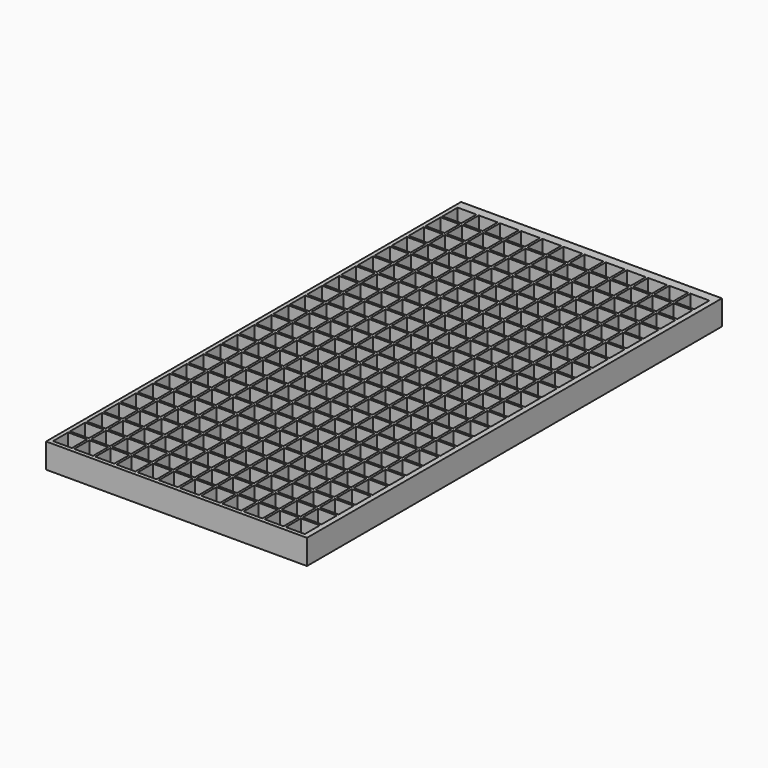
from build123d import *

# Parameters (mm, degrees)
F0_W     = 266.7
F0_H     = 530.225
F0_W_2   = 19.2532
F0_H_2   = 19.2532
F1_DEPTH = 25.4


with BuildPart() as f1:
    # F0 (on Top) → F1 (new body)
    with BuildSketch(Plane.XY):
        with Locations((133.35, 265.1125)):
            Rectangle(F0_W, F0_H)
        with Locations((13.589, 13.589)):
            Rectangle(F0_W_2, F0_H_2, mode=Mode.SUBTRACT)
        with Locations((13.589, 35.2298)):
            Rectangle(F0_W_2, F0_H_2, mode=Mode.SUBTRACT)
        with Locations((13.589, 56.8706)):
            Rectangle(F0_W_2, F0_H_2, mode=Mode.SUBTRACT)
        with Locations((35.2298, 13.589)):
            Rectangle(F0_W_2, F0_H_2, mode=Mode.SUBTRACT)
        with Locations((56.8706, 13.589)):
            Rectangle(F0_W_2, F0_H_2, mode=Mode.SUBTRACT)
        with Locations((35.2298, 35.2298)):
            Rectangle(F0_W_2, F0_H_2, mode=Mode.SUBTRACT)
        with Locations((35.2298, 56.8706)):
            Rectangle(F0_W_2, F0_H_2, mode=Mode.SUBTRACT)
        with Locations((56.8706, 35.2298)):
            Rectangle(F0_W_2, F0_H_2, mode=Mode.SUBTRACT)
        with Locations((56.8706, 56.8706)):
            Rectangle(F0_W_2, F0_H_2, mode=Mode.SUBTRACT)
        with Locations((13.589, 78.5114)):
            Rectangle(F0_W_2, F0_H_2, mode=Mode.SUBTRACT)
        with Locations((13.589, 100.1522)):
            Rectangle(F0_W_2, F0_H_2, mode=Mode.SUBTRACT)
        with Locations((13.589, 121.793)):
            Rectangle(F0_W_2, F0_H_2, mode=Mode.SUBTRACT)
        with Locations((35.2298, 78.5114)):
            Rectangle(F0_W_2, F0_H_2, mode=Mode.SUBTRACT)
        with Locations((56.8706, 78.5114)):
            Rectangle(F0_W_2, F0_H_2, mode=Mode.SUBTRACT)
        with Locations((35.2298, 100.1522)):
            Rectangle(F0_W_2, F0_H_2, mode=Mode.SUBTRACT)
        with Locations((35.2298, 121.793)):
            Rectangle(F0_W_2, F0_H_2, mode=Mode.SUBTRACT)
        with Locations((56.8706, 100.1522)):
            Rectangle(F0_W_2, F0_H_2, mode=Mode.SUBTRACT)
        with Locations((56.8706, 121.793)):
            Rectangle(F0_W_2, F0_H_2, mode=Mode.SUBTRACT)
        with Locations((78.5114, 13.589)):
            Rectangle(F0_W_2, F0_H_2, mode=Mode.SUBTRACT)
        with Locations((78.5114, 35.2298)):
            Rectangle(F0_W_2, F0_H_2, mode=Mode.SUBTRACT)
        with Locations((78.5114, 56.8706)):
            Rectangle(F0_W_2, F0_H_2, mode=Mode.SUBTRACT)
        with Locations((100.1522, 13.589)):
            Rectangle(F0_W_2, F0_H_2, mode=Mode.SUBTRACT)
        with Locations((121.793, 13.589)):
            Rectangle(F0_W_2, F0_H_2, mode=Mode.SUBTRACT)
        with Locations((100.1522, 35.2298)):
            Rectangle(F0_W_2, F0_H_2, mode=Mode.SUBTRACT)
        with Locations((100.1522, 56.8706)):
            Rectangle(F0_W_2, F0_H_2, mode=Mode.SUBTRACT)
        with Locations((121.793, 35.2298)):
            Rectangle(F0_W_2, F0_H_2, mode=Mode.SUBTRACT)
        with Locations((121.793, 56.8706)):
            Rectangle(F0_W_2, F0_H_2, mode=Mode.SUBTRACT)
        with Locations((78.5114, 78.5114)):
            Rectangle(F0_W_2, F0_H_2, mode=Mode.SUBTRACT)
        with Locations((78.5114, 100.1522)):
            Rectangle(F0_W_2, F0_H_2, mode=Mode.SUBTRACT)
        with Locations((78.5114, 121.793)):
            Rectangle(F0_W_2, F0_H_2, mode=Mode.SUBTRACT)
        with Locations((100.1522, 78.5114)):
            Rectangle(F0_W_2, F0_H_2, mode=Mode.SUBTRACT)
        with Locations((121.793, 78.5114)):
            Rectangle(F0_W_2, F0_H_2, mode=Mode.SUBTRACT)
        with Locations((100.1522, 100.1522)):
            Rectangle(F0_W_2, F0_H_2, mode=Mode.SUBTRACT)
        with Locations((100.1522, 121.793)):
            Rectangle(F0_W_2, F0_H_2, mode=Mode.SUBTRACT)
        with Locations((121.793, 100.1522)):
            Rectangle(F0_W_2, F0_H_2, mode=Mode.SUBTRACT)
        with Locations((121.793, 121.793)):
            Rectangle(F0_W_2, F0_H_2, mode=Mode.SUBTRACT)
        with Locations((13.589, 143.4338)):
            Rectangle(F0_W_2, F0_H_2, mode=Mode.SUBTRACT)
        with Locations((13.589, 165.0746)):
            Rectangle(F0_W_2, F0_H_2, mode=Mode.SUBTRACT)
        with Locations((13.589, 186.7154)):
            Rectangle(F0_W_2, F0_H_2, mode=Mode.SUBTRACT)
        with Locations((35.2298, 143.4338)):
            Rectangle(F0_W_2, F0_H_2, mode=Mode.SUBTRACT)
        with Locations((35.2298, 165.0746)):
            Rectangle(F0_W_2, F0_H_2, mode=Mode.SUBTRACT)
        with Locations((56.8706, 143.4338)):
            Rectangle(F0_W_2, F0_H_2, mode=Mode.SUBTRACT)
        with Locations((56.8706, 165.0746)):
            Rectangle(F0_W_2, F0_H_2, mode=Mode.SUBTRACT)
        with Locations((35.2298, 186.7154)):
            Rectangle(F0_W_2, F0_H_2, mode=Mode.SUBTRACT)
        with Locations((56.8706, 186.7154)):
            Rectangle(F0_W_2, F0_H_2, mode=Mode.SUBTRACT)
        with Locations((13.589, 208.3562)):
            Rectangle(F0_W_2, F0_H_2, mode=Mode.SUBTRACT)
        with Locations((13.589, 229.997)):
            Rectangle(F0_W_2, F0_H_2, mode=Mode.SUBTRACT)
        with Locations((13.589, 251.6378)):
            Rectangle(F0_W_2, F0_H_2, mode=Mode.SUBTRACT)
        with Locations((35.2298, 208.3562)):
            Rectangle(F0_W_2, F0_H_2, mode=Mode.SUBTRACT)
        with Locations((35.2298, 229.997)):
            Rectangle(F0_W_2, F0_H_2, mode=Mode.SUBTRACT)
        with Locations((56.8706, 208.3562)):
            Rectangle(F0_W_2, F0_H_2, mode=Mode.SUBTRACT)
        with Locations((56.8706, 229.997)):
            Rectangle(F0_W_2, F0_H_2, mode=Mode.SUBTRACT)
        with Locations((35.2298, 251.6378)):
            Rectangle(F0_W_2, F0_H_2, mode=Mode.SUBTRACT)
        with Locations((56.8706, 251.6378)):
            Rectangle(F0_W_2, F0_H_2, mode=Mode.SUBTRACT)
        with Locations((78.5114, 143.4338)):
            Rectangle(F0_W_2, F0_H_2, mode=Mode.SUBTRACT)
        with Locations((78.5114, 165.0746)):
            Rectangle(F0_W_2, F0_H_2, mode=Mode.SUBTRACT)
        with Locations((78.5114, 186.7154)):
            Rectangle(F0_W_2, F0_H_2, mode=Mode.SUBTRACT)
        with Locations((100.1522, 143.4338)):
            Rectangle(F0_W_2, F0_H_2, mode=Mode.SUBTRACT)
        with Locations((100.1522, 165.0746)):
            Rectangle(F0_W_2, F0_H_2, mode=Mode.SUBTRACT)
        with Locations((121.793, 143.4338)):
            Rectangle(F0_W_2, F0_H_2, mode=Mode.SUBTRACT)
        with Locations((121.793, 165.0746)):
            Rectangle(F0_W_2, F0_H_2, mode=Mode.SUBTRACT)
        with Locations((100.1522, 186.7154)):
            Rectangle(F0_W_2, F0_H_2, mode=Mode.SUBTRACT)
        with Locations((121.793, 186.7154)):
            Rectangle(F0_W_2, F0_H_2, mode=Mode.SUBTRACT)
        with Locations((78.5114, 208.3562)):
            Rectangle(F0_W_2, F0_H_2, mode=Mode.SUBTRACT)
        with Locations((78.5114, 229.997)):
            Rectangle(F0_W_2, F0_H_2, mode=Mode.SUBTRACT)
        with Locations((78.5114, 251.6378)):
            Rectangle(F0_W_2, F0_H_2, mode=Mode.SUBTRACT)
        with Locations((100.1522, 208.3562)):
            Rectangle(F0_W_2, F0_H_2, mode=Mode.SUBTRACT)
        with Locations((100.1522, 229.997)):
            Rectangle(F0_W_2, F0_H_2, mode=Mode.SUBTRACT)
        with Locations((121.793, 208.3562)):
            Rectangle(F0_W_2, F0_H_2, mode=Mode.SUBTRACT)
        with Locations((121.793, 229.997)):
            Rectangle(F0_W_2, F0_H_2, mode=Mode.SUBTRACT)
        with Locations((100.1522, 251.6378)):
            Rectangle(F0_W_2, F0_H_2, mode=Mode.SUBTRACT)
        with Locations((121.793, 251.6378)):
            Rectangle(F0_W_2, F0_H_2, mode=Mode.SUBTRACT)
        with Locations((143.4338, 13.589)):
            Rectangle(F0_W_2, F0_H_2, mode=Mode.SUBTRACT)
        with Locations((165.0746, 13.589)):
            Rectangle(F0_W_2, F0_H_2, mode=Mode.SUBTRACT)
        with Locations((143.4338, 35.2298)):
            Rectangle(F0_W_2, F0_H_2, mode=Mode.SUBTRACT)
        with Locations((143.4338, 56.8706)):
            Rectangle(F0_W_2, F0_H_2, mode=Mode.SUBTRACT)
        with Locations((165.0746, 35.2298)):
            Rectangle(F0_W_2, F0_H_2, mode=Mode.SUBTRACT)
        with Locations((165.0746, 56.8706)):
            Rectangle(F0_W_2, F0_H_2, mode=Mode.SUBTRACT)
        with Locations((186.7154, 13.589)):
            Rectangle(F0_W_2, F0_H_2, mode=Mode.SUBTRACT)
        with Locations((186.7154, 35.2298)):
            Rectangle(F0_W_2, F0_H_2, mode=Mode.SUBTRACT)
        with Locations((186.7154, 56.8706)):
            Rectangle(F0_W_2, F0_H_2, mode=Mode.SUBTRACT)
        with Locations((143.4338, 78.5114)):
            Rectangle(F0_W_2, F0_H_2, mode=Mode.SUBTRACT)
        with Locations((165.0746, 78.5114)):
            Rectangle(F0_W_2, F0_H_2, mode=Mode.SUBTRACT)
        with Locations((143.4338, 100.1522)):
            Rectangle(F0_W_2, F0_H_2, mode=Mode.SUBTRACT)
        with Locations((143.4338, 121.793)):
            Rectangle(F0_W_2, F0_H_2, mode=Mode.SUBTRACT)
        with Locations((165.0746, 100.1522)):
            Rectangle(F0_W_2, F0_H_2, mode=Mode.SUBTRACT)
        with Locations((165.0746, 121.793)):
            Rectangle(F0_W_2, F0_H_2, mode=Mode.SUBTRACT)
        with Locations((186.7154, 78.5114)):
            Rectangle(F0_W_2, F0_H_2, mode=Mode.SUBTRACT)
        with Locations((186.7154, 100.1522)):
            Rectangle(F0_W_2, F0_H_2, mode=Mode.SUBTRACT)
        with Locations((186.7154, 121.793)):
            Rectangle(F0_W_2, F0_H_2, mode=Mode.SUBTRACT)
        with Locations((208.3562, 13.589)):
            Rectangle(F0_W_2, F0_H_2, mode=Mode.SUBTRACT)
        with Locations((229.997, 13.589)):
            Rectangle(F0_W_2, F0_H_2, mode=Mode.SUBTRACT)
        with Locations((208.3562, 35.2298)):
            Rectangle(F0_W_2, F0_H_2, mode=Mode.SUBTRACT)
        with Locations((208.3562, 56.8706)):
            Rectangle(F0_W_2, F0_H_2, mode=Mode.SUBTRACT)
        with Locations((229.997, 35.2298)):
            Rectangle(F0_W_2, F0_H_2, mode=Mode.SUBTRACT)
        with Locations((229.997, 56.8706)):
            Rectangle(F0_W_2, F0_H_2, mode=Mode.SUBTRACT)
        with Locations((251.6378, 13.589)):
            Rectangle(F0_W_2, F0_H_2, mode=Mode.SUBTRACT)
        with Locations((251.6378, 35.2298)):
            Rectangle(F0_W_2, F0_H_2, mode=Mode.SUBTRACT)
        with Locations((251.6378, 56.8706)):
            Rectangle(F0_W_2, F0_H_2, mode=Mode.SUBTRACT)
        with Locations((208.3562, 78.5114)):
            Rectangle(F0_W_2, F0_H_2, mode=Mode.SUBTRACT)
        with Locations((229.997, 78.5114)):
            Rectangle(F0_W_2, F0_H_2, mode=Mode.SUBTRACT)
        with Locations((208.3562, 100.1522)):
            Rectangle(F0_W_2, F0_H_2, mode=Mode.SUBTRACT)
        with Locations((208.3562, 121.793)):
            Rectangle(F0_W_2, F0_H_2, mode=Mode.SUBTRACT)
        with Locations((229.997, 100.1522)):
            Rectangle(F0_W_2, F0_H_2, mode=Mode.SUBTRACT)
        with Locations((229.997, 121.793)):
            Rectangle(F0_W_2, F0_H_2, mode=Mode.SUBTRACT)
        with Locations((251.6378, 78.5114)):
            Rectangle(F0_W_2, F0_H_2, mode=Mode.SUBTRACT)
        with Locations((251.6378, 100.1522)):
            Rectangle(F0_W_2, F0_H_2, mode=Mode.SUBTRACT)
        with Locations((251.6378, 121.793)):
            Rectangle(F0_W_2, F0_H_2, mode=Mode.SUBTRACT)
        with Locations((143.4338, 143.4338)):
            Rectangle(F0_W_2, F0_H_2, mode=Mode.SUBTRACT)
        with Locations((143.4338, 165.0746)):
            Rectangle(F0_W_2, F0_H_2, mode=Mode.SUBTRACT)
        with Locations((165.0746, 143.4338)):
            Rectangle(F0_W_2, F0_H_2, mode=Mode.SUBTRACT)
        with Locations((165.0746, 165.0746)):
            Rectangle(F0_W_2, F0_H_2, mode=Mode.SUBTRACT)
        with Locations((143.4338, 186.7154)):
            Rectangle(F0_W_2, F0_H_2, mode=Mode.SUBTRACT)
        with Locations((165.0746, 186.7154)):
            Rectangle(F0_W_2, F0_H_2, mode=Mode.SUBTRACT)
        with Locations((186.7154, 143.4338)):
            Rectangle(F0_W_2, F0_H_2, mode=Mode.SUBTRACT)
        with Locations((186.7154, 165.0746)):
            Rectangle(F0_W_2, F0_H_2, mode=Mode.SUBTRACT)
        with Locations((186.7154, 186.7154)):
            Rectangle(F0_W_2, F0_H_2, mode=Mode.SUBTRACT)
        with Locations((143.4338, 208.3562)):
            Rectangle(F0_W_2, F0_H_2, mode=Mode.SUBTRACT)
        with Locations((143.4338, 229.997)):
            Rectangle(F0_W_2, F0_H_2, mode=Mode.SUBTRACT)
        with Locations((165.0746, 208.3562)):
            Rectangle(F0_W_2, F0_H_2, mode=Mode.SUBTRACT)
        with Locations((165.0746, 229.997)):
            Rectangle(F0_W_2, F0_H_2, mode=Mode.SUBTRACT)
        with Locations((143.4338, 251.6378)):
            Rectangle(F0_W_2, F0_H_2, mode=Mode.SUBTRACT)
        with Locations((165.0746, 251.6378)):
            Rectangle(F0_W_2, F0_H_2, mode=Mode.SUBTRACT)
        with Locations((186.7154, 208.3562)):
            Rectangle(F0_W_2, F0_H_2, mode=Mode.SUBTRACT)
        with Locations((186.7154, 229.997)):
            Rectangle(F0_W_2, F0_H_2, mode=Mode.SUBTRACT)
        with Locations((186.7154, 251.6378)):
            Rectangle(F0_W_2, F0_H_2, mode=Mode.SUBTRACT)
        with Locations((208.3562, 143.4338)):
            Rectangle(F0_W_2, F0_H_2, mode=Mode.SUBTRACT)
        with Locations((208.3562, 165.0746)):
            Rectangle(F0_W_2, F0_H_2, mode=Mode.SUBTRACT)
        with Locations((229.997, 143.4338)):
            Rectangle(F0_W_2, F0_H_2, mode=Mode.SUBTRACT)
        with Locations((229.997, 165.0746)):
            Rectangle(F0_W_2, F0_H_2, mode=Mode.SUBTRACT)
        with Locations((208.3562, 186.7154)):
            Rectangle(F0_W_2, F0_H_2, mode=Mode.SUBTRACT)
        with Locations((229.997, 186.7154)):
            Rectangle(F0_W_2, F0_H_2, mode=Mode.SUBTRACT)
        with Locations((251.6378, 143.4338)):
            Rectangle(F0_W_2, F0_H_2, mode=Mode.SUBTRACT)
        with Locations((251.6378, 165.0746)):
            Rectangle(F0_W_2, F0_H_2, mode=Mode.SUBTRACT)
        with Locations((251.6378, 186.7154)):
            Rectangle(F0_W_2, F0_H_2, mode=Mode.SUBTRACT)
        with Locations((208.3562, 208.3562)):
            Rectangle(F0_W_2, F0_H_2, mode=Mode.SUBTRACT)
        with Locations((208.3562, 229.997)):
            Rectangle(F0_W_2, F0_H_2, mode=Mode.SUBTRACT)
        with Locations((229.997, 208.3562)):
            Rectangle(F0_W_2, F0_H_2, mode=Mode.SUBTRACT)
        with Locations((229.997, 229.997)):
            Rectangle(F0_W_2, F0_H_2, mode=Mode.SUBTRACT)
        with Locations((208.3562, 251.6378)):
            Rectangle(F0_W_2, F0_H_2, mode=Mode.SUBTRACT)
        with Locations((229.997, 251.6378)):
            Rectangle(F0_W_2, F0_H_2, mode=Mode.SUBTRACT)
        with Locations((251.6378, 208.3562)):
            Rectangle(F0_W_2, F0_H_2, mode=Mode.SUBTRACT)
        with Locations((251.6378, 229.997)):
            Rectangle(F0_W_2, F0_H_2, mode=Mode.SUBTRACT)
        with Locations((251.6378, 251.6378)):
            Rectangle(F0_W_2, F0_H_2, mode=Mode.SUBTRACT)
        with Locations((13.589, 273.2786)):
            Rectangle(F0_W_2, F0_H_2, mode=Mode.SUBTRACT)
        with Locations((13.589, 294.9194)):
            Rectangle(F0_W_2, F0_H_2, mode=Mode.SUBTRACT)
        with Locations((13.589, 316.5602)):
            Rectangle(F0_W_2, F0_H_2, mode=Mode.SUBTRACT)
        with Locations((35.2298, 273.2786)):
            Rectangle(F0_W_2, F0_H_2, mode=Mode.SUBTRACT)
        with Locations((35.2298, 294.9194)):
            Rectangle(F0_W_2, F0_H_2, mode=Mode.SUBTRACT)
        with Locations((56.8706, 273.2786)):
            Rectangle(F0_W_2, F0_H_2, mode=Mode.SUBTRACT)
        with Locations((56.8706, 294.9194)):
            Rectangle(F0_W_2, F0_H_2, mode=Mode.SUBTRACT)
        with Locations((35.2298, 316.5602)):
            Rectangle(F0_W_2, F0_H_2, mode=Mode.SUBTRACT)
        with Locations((56.8706, 316.5602)):
            Rectangle(F0_W_2, F0_H_2, mode=Mode.SUBTRACT)
        with Locations((13.589, 338.201)):
            Rectangle(F0_W_2, F0_H_2, mode=Mode.SUBTRACT)
        with Locations((13.589, 359.8418)):
            Rectangle(F0_W_2, F0_H_2, mode=Mode.SUBTRACT)
        with Locations((13.589, 381.4826)):
            Rectangle(F0_W_2, F0_H_2, mode=Mode.SUBTRACT)
        with Locations((35.2298, 338.201)):
            Rectangle(F0_W_2, F0_H_2, mode=Mode.SUBTRACT)
        with Locations((35.2298, 359.8418)):
            Rectangle(F0_W_2, F0_H_2, mode=Mode.SUBTRACT)
        with Locations((56.8706, 338.201)):
            Rectangle(F0_W_2, F0_H_2, mode=Mode.SUBTRACT)
        with Locations((56.8706, 359.8418)):
            Rectangle(F0_W_2, F0_H_2, mode=Mode.SUBTRACT)
        with Locations((35.2298, 381.4826)):
            Rectangle(F0_W_2, F0_H_2, mode=Mode.SUBTRACT)
        with Locations((56.8706, 381.4826)):
            Rectangle(F0_W_2, F0_H_2, mode=Mode.SUBTRACT)
        with Locations((78.5114, 273.2786)):
            Rectangle(F0_W_2, F0_H_2, mode=Mode.SUBTRACT)
        with Locations((78.5114, 294.9194)):
            Rectangle(F0_W_2, F0_H_2, mode=Mode.SUBTRACT)
        with Locations((78.5114, 316.5602)):
            Rectangle(F0_W_2, F0_H_2, mode=Mode.SUBTRACT)
        with Locations((100.1522, 273.2786)):
            Rectangle(F0_W_2, F0_H_2, mode=Mode.SUBTRACT)
        with Locations((100.1522, 294.9194)):
            Rectangle(F0_W_2, F0_H_2, mode=Mode.SUBTRACT)
        with Locations((121.793, 273.2786)):
            Rectangle(F0_W_2, F0_H_2, mode=Mode.SUBTRACT)
        with Locations((121.793, 294.9194)):
            Rectangle(F0_W_2, F0_H_2, mode=Mode.SUBTRACT)
        with Locations((100.1522, 316.5602)):
            Rectangle(F0_W_2, F0_H_2, mode=Mode.SUBTRACT)
        with Locations((121.793, 316.5602)):
            Rectangle(F0_W_2, F0_H_2, mode=Mode.SUBTRACT)
        with Locations((78.5114, 338.201)):
            Rectangle(F0_W_2, F0_H_2, mode=Mode.SUBTRACT)
        with Locations((78.5114, 359.8418)):
            Rectangle(F0_W_2, F0_H_2, mode=Mode.SUBTRACT)
        with Locations((78.5114, 381.4826)):
            Rectangle(F0_W_2, F0_H_2, mode=Mode.SUBTRACT)
        with Locations((100.1522, 338.201)):
            Rectangle(F0_W_2, F0_H_2, mode=Mode.SUBTRACT)
        with Locations((100.1522, 359.8418)):
            Rectangle(F0_W_2, F0_H_2, mode=Mode.SUBTRACT)
        with Locations((121.793, 338.201)):
            Rectangle(F0_W_2, F0_H_2, mode=Mode.SUBTRACT)
        with Locations((121.793, 359.8418)):
            Rectangle(F0_W_2, F0_H_2, mode=Mode.SUBTRACT)
        with Locations((100.1522, 381.4826)):
            Rectangle(F0_W_2, F0_H_2, mode=Mode.SUBTRACT)
        with Locations((121.793, 381.4826)):
            Rectangle(F0_W_2, F0_H_2, mode=Mode.SUBTRACT)
        with Locations((13.589, 403.1234)):
            Rectangle(F0_W_2, F0_H_2, mode=Mode.SUBTRACT)
        with Locations((13.589, 424.7642)):
            Rectangle(F0_W_2, F0_H_2, mode=Mode.SUBTRACT)
        with Locations((13.589, 446.405)):
            Rectangle(F0_W_2, F0_H_2, mode=Mode.SUBTRACT)
        with Locations((35.2298, 403.1234)):
            Rectangle(F0_W_2, F0_H_2, mode=Mode.SUBTRACT)
        with Locations((35.2298, 424.7642)):
            Rectangle(F0_W_2, F0_H_2, mode=Mode.SUBTRACT)
        with Locations((56.8706, 403.1234)):
            Rectangle(F0_W_2, F0_H_2, mode=Mode.SUBTRACT)
        with Locations((56.8706, 424.7642)):
            Rectangle(F0_W_2, F0_H_2, mode=Mode.SUBTRACT)
        with Locations((35.2298, 446.405)):
            Rectangle(F0_W_2, F0_H_2, mode=Mode.SUBTRACT)
        with Locations((56.8706, 446.405)):
            Rectangle(F0_W_2, F0_H_2, mode=Mode.SUBTRACT)
        with Locations((13.589, 468.0458)):
            Rectangle(F0_W_2, F0_H_2, mode=Mode.SUBTRACT)
        with Locations((13.589, 489.6866)):
            Rectangle(F0_W_2, F0_H_2, mode=Mode.SUBTRACT)
        with Locations((13.589, 511.3274)):
            Rectangle(F0_W_2, F0_H_2, mode=Mode.SUBTRACT)
        with Locations((35.2298, 468.0458)):
            Rectangle(F0_W_2, F0_H_2, mode=Mode.SUBTRACT)
        with Locations((35.2298, 489.6866)):
            Rectangle(F0_W_2, F0_H_2, mode=Mode.SUBTRACT)
        with Locations((56.8706, 468.0458)):
            Rectangle(F0_W_2, F0_H_2, mode=Mode.SUBTRACT)
        with Locations((56.8706, 489.6866)):
            Rectangle(F0_W_2, F0_H_2, mode=Mode.SUBTRACT)
        with Locations((35.2298, 511.3274)):
            Rectangle(F0_W_2, F0_H_2, mode=Mode.SUBTRACT)
        with Locations((56.8706, 511.3274)):
            Rectangle(F0_W_2, F0_H_2, mode=Mode.SUBTRACT)
        with Locations((78.5114, 403.1234)):
            Rectangle(F0_W_2, F0_H_2, mode=Mode.SUBTRACT)
        with Locations((78.5114, 424.7642)):
            Rectangle(F0_W_2, F0_H_2, mode=Mode.SUBTRACT)
        with Locations((78.5114, 446.405)):
            Rectangle(F0_W_2, F0_H_2, mode=Mode.SUBTRACT)
        with Locations((100.1522, 403.1234)):
            Rectangle(F0_W_2, F0_H_2, mode=Mode.SUBTRACT)
        with Locations((100.1522, 424.7642)):
            Rectangle(F0_W_2, F0_H_2, mode=Mode.SUBTRACT)
        with Locations((121.793, 403.1234)):
            Rectangle(F0_W_2, F0_H_2, mode=Mode.SUBTRACT)
        with Locations((121.793, 424.7642)):
            Rectangle(F0_W_2, F0_H_2, mode=Mode.SUBTRACT)
        with Locations((100.1522, 446.405)):
            Rectangle(F0_W_2, F0_H_2, mode=Mode.SUBTRACT)
        with Locations((121.793, 446.405)):
            Rectangle(F0_W_2, F0_H_2, mode=Mode.SUBTRACT)
        with Locations((78.5114, 468.0458)):
            Rectangle(F0_W_2, F0_H_2, mode=Mode.SUBTRACT)
        with Locations((78.5114, 489.6866)):
            Rectangle(F0_W_2, F0_H_2, mode=Mode.SUBTRACT)
        with Locations((78.5114, 511.3274)):
            Rectangle(F0_W_2, F0_H_2, mode=Mode.SUBTRACT)
        with Locations((100.1522, 468.0458)):
            Rectangle(F0_W_2, F0_H_2, mode=Mode.SUBTRACT)
        with Locations((100.1522, 489.6866)):
            Rectangle(F0_W_2, F0_H_2, mode=Mode.SUBTRACT)
        with Locations((121.793, 468.0458)):
            Rectangle(F0_W_2, F0_H_2, mode=Mode.SUBTRACT)
        with Locations((121.793, 489.6866)):
            Rectangle(F0_W_2, F0_H_2, mode=Mode.SUBTRACT)
        with Locations((100.1522, 511.3274)):
            Rectangle(F0_W_2, F0_H_2, mode=Mode.SUBTRACT)
        with Locations((121.793, 511.3274)):
            Rectangle(F0_W_2, F0_H_2, mode=Mode.SUBTRACT)
        with Locations((143.4338, 273.2786)):
            Rectangle(F0_W_2, F0_H_2, mode=Mode.SUBTRACT)
        with Locations((143.4338, 294.9194)):
            Rectangle(F0_W_2, F0_H_2, mode=Mode.SUBTRACT)
        with Locations((165.0746, 273.2786)):
            Rectangle(F0_W_2, F0_H_2, mode=Mode.SUBTRACT)
        with Locations((165.0746, 294.9194)):
            Rectangle(F0_W_2, F0_H_2, mode=Mode.SUBTRACT)
        with Locations((143.4338, 316.5602)):
            Rectangle(F0_W_2, F0_H_2, mode=Mode.SUBTRACT)
        with Locations((165.0746, 316.5602)):
            Rectangle(F0_W_2, F0_H_2, mode=Mode.SUBTRACT)
        with Locations((186.7154, 273.2786)):
            Rectangle(F0_W_2, F0_H_2, mode=Mode.SUBTRACT)
        with Locations((186.7154, 294.9194)):
            Rectangle(F0_W_2, F0_H_2, mode=Mode.SUBTRACT)
        with Locations((186.7154, 316.5602)):
            Rectangle(F0_W_2, F0_H_2, mode=Mode.SUBTRACT)
        with Locations((143.4338, 338.201)):
            Rectangle(F0_W_2, F0_H_2, mode=Mode.SUBTRACT)
        with Locations((143.4338, 359.8418)):
            Rectangle(F0_W_2, F0_H_2, mode=Mode.SUBTRACT)
        with Locations((165.0746, 338.201)):
            Rectangle(F0_W_2, F0_H_2, mode=Mode.SUBTRACT)
        with Locations((165.0746, 359.8418)):
            Rectangle(F0_W_2, F0_H_2, mode=Mode.SUBTRACT)
        with Locations((143.4338, 381.4826)):
            Rectangle(F0_W_2, F0_H_2, mode=Mode.SUBTRACT)
        with Locations((165.0746, 381.4826)):
            Rectangle(F0_W_2, F0_H_2, mode=Mode.SUBTRACT)
        with Locations((186.7154, 338.201)):
            Rectangle(F0_W_2, F0_H_2, mode=Mode.SUBTRACT)
        with Locations((186.7154, 359.8418)):
            Rectangle(F0_W_2, F0_H_2, mode=Mode.SUBTRACT)
        with Locations((186.7154, 381.4826)):
            Rectangle(F0_W_2, F0_H_2, mode=Mode.SUBTRACT)
        with Locations((208.3562, 273.2786)):
            Rectangle(F0_W_2, F0_H_2, mode=Mode.SUBTRACT)
        with Locations((208.3562, 294.9194)):
            Rectangle(F0_W_2, F0_H_2, mode=Mode.SUBTRACT)
        with Locations((229.997, 273.2786)):
            Rectangle(F0_W_2, F0_H_2, mode=Mode.SUBTRACT)
        with Locations((229.997, 294.9194)):
            Rectangle(F0_W_2, F0_H_2, mode=Mode.SUBTRACT)
        with Locations((208.3562, 316.5602)):
            Rectangle(F0_W_2, F0_H_2, mode=Mode.SUBTRACT)
        with Locations((229.997, 316.5602)):
            Rectangle(F0_W_2, F0_H_2, mode=Mode.SUBTRACT)
        with Locations((251.6378, 273.2786)):
            Rectangle(F0_W_2, F0_H_2, mode=Mode.SUBTRACT)
        with Locations((251.6378, 294.9194)):
            Rectangle(F0_W_2, F0_H_2, mode=Mode.SUBTRACT)
        with Locations((251.6378, 316.5602)):
            Rectangle(F0_W_2, F0_H_2, mode=Mode.SUBTRACT)
        with Locations((208.3562, 338.201)):
            Rectangle(F0_W_2, F0_H_2, mode=Mode.SUBTRACT)
        with Locations((208.3562, 359.8418)):
            Rectangle(F0_W_2, F0_H_2, mode=Mode.SUBTRACT)
        with Locations((229.997, 338.201)):
            Rectangle(F0_W_2, F0_H_2, mode=Mode.SUBTRACT)
        with Locations((229.997, 359.8418)):
            Rectangle(F0_W_2, F0_H_2, mode=Mode.SUBTRACT)
        with Locations((208.3562, 381.4826)):
            Rectangle(F0_W_2, F0_H_2, mode=Mode.SUBTRACT)
        with Locations((229.997, 381.4826)):
            Rectangle(F0_W_2, F0_H_2, mode=Mode.SUBTRACT)
        with Locations((251.6378, 338.201)):
            Rectangle(F0_W_2, F0_H_2, mode=Mode.SUBTRACT)
        with Locations((251.6378, 359.8418)):
            Rectangle(F0_W_2, F0_H_2, mode=Mode.SUBTRACT)
        with Locations((251.6378, 381.4826)):
            Rectangle(F0_W_2, F0_H_2, mode=Mode.SUBTRACT)
        with Locations((143.4338, 403.1234)):
            Rectangle(F0_W_2, F0_H_2, mode=Mode.SUBTRACT)
        with Locations((143.4338, 424.7642)):
            Rectangle(F0_W_2, F0_H_2, mode=Mode.SUBTRACT)
        with Locations((165.0746, 403.1234)):
            Rectangle(F0_W_2, F0_H_2, mode=Mode.SUBTRACT)
        with Locations((165.0746, 424.7642)):
            Rectangle(F0_W_2, F0_H_2, mode=Mode.SUBTRACT)
        with Locations((143.4338, 446.405)):
            Rectangle(F0_W_2, F0_H_2, mode=Mode.SUBTRACT)
        with Locations((165.0746, 446.405)):
            Rectangle(F0_W_2, F0_H_2, mode=Mode.SUBTRACT)
        with Locations((186.7154, 403.1234)):
            Rectangle(F0_W_2, F0_H_2, mode=Mode.SUBTRACT)
        with Locations((186.7154, 424.7642)):
            Rectangle(F0_W_2, F0_H_2, mode=Mode.SUBTRACT)
        with Locations((186.7154, 446.405)):
            Rectangle(F0_W_2, F0_H_2, mode=Mode.SUBTRACT)
        with Locations((143.4338, 468.0458)):
            Rectangle(F0_W_2, F0_H_2, mode=Mode.SUBTRACT)
        with Locations((143.4338, 489.6866)):
            Rectangle(F0_W_2, F0_H_2, mode=Mode.SUBTRACT)
        with Locations((165.0746, 468.0458)):
            Rectangle(F0_W_2, F0_H_2, mode=Mode.SUBTRACT)
        with Locations((165.0746, 489.6866)):
            Rectangle(F0_W_2, F0_H_2, mode=Mode.SUBTRACT)
        with Locations((143.4338, 511.3274)):
            Rectangle(F0_W_2, F0_H_2, mode=Mode.SUBTRACT)
        with Locations((165.0746, 511.3274)):
            Rectangle(F0_W_2, F0_H_2, mode=Mode.SUBTRACT)
        with Locations((186.7154, 468.0458)):
            Rectangle(F0_W_2, F0_H_2, mode=Mode.SUBTRACT)
        with Locations((186.7154, 489.6866)):
            Rectangle(F0_W_2, F0_H_2, mode=Mode.SUBTRACT)
        with Locations((186.7154, 511.3274)):
            Rectangle(F0_W_2, F0_H_2, mode=Mode.SUBTRACT)
        with Locations((208.3562, 403.1234)):
            Rectangle(F0_W_2, F0_H_2, mode=Mode.SUBTRACT)
        with Locations((208.3562, 424.7642)):
            Rectangle(F0_W_2, F0_H_2, mode=Mode.SUBTRACT)
        with Locations((229.997, 403.1234)):
            Rectangle(F0_W_2, F0_H_2, mode=Mode.SUBTRACT)
        with Locations((229.997, 424.7642)):
            Rectangle(F0_W_2, F0_H_2, mode=Mode.SUBTRACT)
        with Locations((208.3562, 446.405)):
            Rectangle(F0_W_2, F0_H_2, mode=Mode.SUBTRACT)
        with Locations((229.997, 446.405)):
            Rectangle(F0_W_2, F0_H_2, mode=Mode.SUBTRACT)
        with Locations((251.6378, 403.1234)):
            Rectangle(F0_W_2, F0_H_2, mode=Mode.SUBTRACT)
        with Locations((251.6378, 424.7642)):
            Rectangle(F0_W_2, F0_H_2, mode=Mode.SUBTRACT)
        with Locations((251.6378, 446.405)):
            Rectangle(F0_W_2, F0_H_2, mode=Mode.SUBTRACT)
        with Locations((208.3562, 468.0458)):
            Rectangle(F0_W_2, F0_H_2, mode=Mode.SUBTRACT)
        with Locations((208.3562, 489.6866)):
            Rectangle(F0_W_2, F0_H_2, mode=Mode.SUBTRACT)
        with Locations((229.997, 468.0458)):
            Rectangle(F0_W_2, F0_H_2, mode=Mode.SUBTRACT)
        with Locations((229.997, 489.6866)):
            Rectangle(F0_W_2, F0_H_2, mode=Mode.SUBTRACT)
        with Locations((208.3562, 511.3274)):
            Rectangle(F0_W_2, F0_H_2, mode=Mode.SUBTRACT)
        with Locations((229.997, 511.3274)):
            Rectangle(F0_W_2, F0_H_2, mode=Mode.SUBTRACT)
        with Locations((251.6378, 468.0458)):
            Rectangle(F0_W_2, F0_H_2, mode=Mode.SUBTRACT)
        with Locations((251.6378, 489.6866)):
            Rectangle(F0_W_2, F0_H_2, mode=Mode.SUBTRACT)
        with Locations((251.6378, 511.3274)):
            Rectangle(F0_W_2, F0_H_2, mode=Mode.SUBTRACT)
    extrude(amount=F1_DEPTH)


with BuildPart() as f2_1:
    # F2: copy of F1
    add(f1.part)


solid = Compound([f1.part, f2_1.part])
